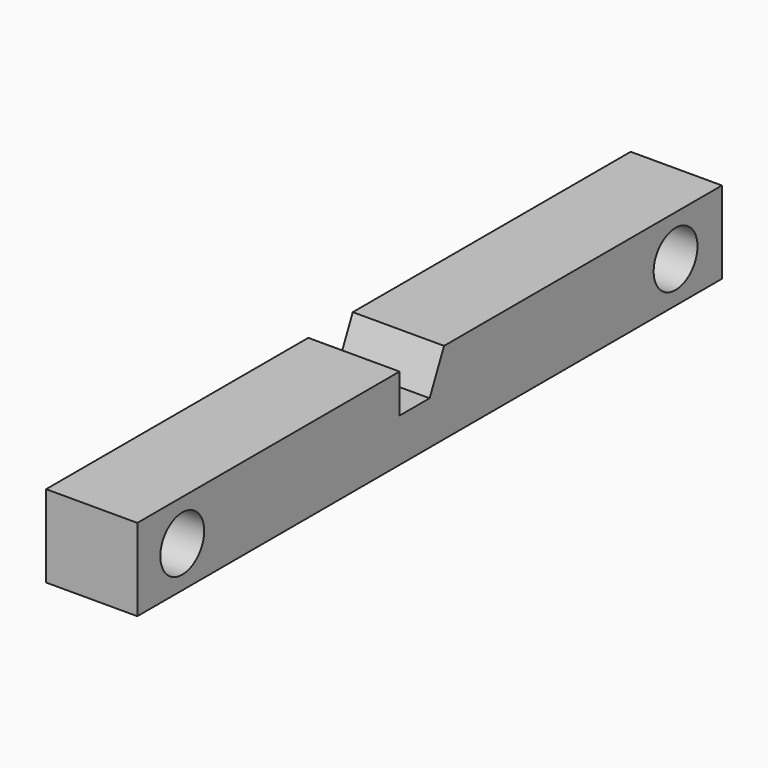
from build123d import *

# Parameters (mm, degrees)
F0_W     = 12.690173
F0_H     = 11.43
F1_DEPTH = 101.6
F3_DEPTH = 25.4
F6_D     = 7.62
F6_DEPTH = 19.05
F7_D     = 7.62
F7_DEPTH = 19.05


with BuildPart() as f1:
    # F0 (on Front) → F1 (new body)
    with BuildSketch(Plane.XZ):
        with Locations((-6.345086, 5.715)):
            Rectangle(F0_W, F0_H)
    extrude(amount=F1_DEPTH)

    # F2 (on face) → F3 (cut)
    with BuildSketch(Plane(origin=(-12.690173, 0, 0), x_dir=(0, -1, 0), z_dir=(-1, 0, 0))):
        Polygon((50.8, 11.43), (48.294391, 11.43), (50.8, 6.035571), (56.032304, 6.035571), (56.032304, 11.43), align=None)
    extrude(amount=-F3_DEPTH, mode=Mode.SUBTRACT)

    # F6
    with Locations(Plane(origin=(-12.690173, 0, 0), x_dir=(0, -1, 0), z_dir=(-1, 0, 0))):
        with Locations((8.057253, 5.715)):
            Hole(F6_D / 2, depth=F6_DEPTH)

    # F7
    with Locations(Plane(origin=(-12.690173, 0, 0), x_dir=(0, -1, 0), z_dir=(-1, 0, 0))):
        with Locations((93.793303, 5.726054)):
            Hole(F7_D / 2, depth=F7_DEPTH)


solid = f1.part
